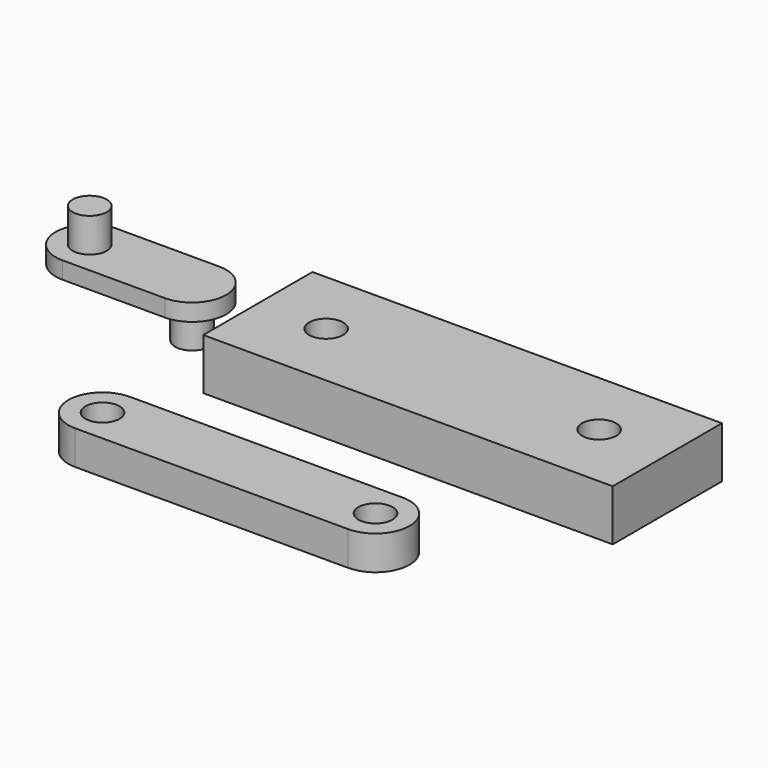
from build123d import *

# Parameters (mm, degrees)
F0_W          = 120
F0_H          = 40
F0_R          = 5
F1_DEPTH      = 15
F2_DEPTH      = 5
F3_DEPTH      = 15
F4_DEPTH      = 10
F4_DEPTH_BACK = 5
F5_DEPTH      = 10


with BuildPart() as f1:
    # F0 (on Top) → F1 (new body)
    with BuildSketch(Plane.XY):
        with Locations((60, 20)):
            Rectangle(F0_W, F0_H)
        with Locations((20, 20)):
            Circle(F0_R, mode=Mode.SUBTRACT)
        with Locations((100, 20)):
            Circle(F0_R, mode=Mode.SUBTRACT)
    extrude(amount=F1_DEPTH)


with BuildPart() as f2:
    # F0 (on Top) → F2 (new body)
    with BuildSketch(Plane.XY):
        with BuildLine():
            Line((-30.2973103523, 43.7778905034), (-60.2973103523, 43.7778905034))
            ThreePointArc((-60.2973103523, 43.7778905034), (-70.2973103523, 33.7778905034), (-60.2973103523, 23.7778905034))
            Line((-60.2973103523, 23.7778905034), (-30.2973103523, 23.7778905034))
            ThreePointArc((-30.2973103523, 23.7778905034), (-20.2973103523, 33.7778905034), (-30.2973103523, 43.7778905034))
        make_face()
        with Locations((-60.2973103523, 33.7778905034)):
            Circle(F0_R, mode=Mode.SUBTRACT)
        with Locations((-30.2973103523, 33.7778905034)):
            Circle(F0_R, mode=Mode.SUBTRACT)
    extrude(amount=F2_DEPTH)

    # F0 (on Top) → F3 (join)
    with BuildSketch(Plane.XY):
        with Locations((-60.2973103523, 33.7778905034)):
            Circle(F0_R)
    extrude(amount=F3_DEPTH)

    # F0 (on Top) → F4 (join, two sides)
    with BuildSketch(Plane.XY) as f4_sk:
        with Locations((-30.2973103523, 33.7778905034)):
            Circle(F0_R)
    extrude(amount=-F4_DEPTH)
    extrude(f4_sk.sketch, amount=F4_DEPTH_BACK)


with BuildPart() as f5:
    # F0 (on Top) → F5 (new body)
    with BuildSketch(Plane.XY):
        with BuildLine():
            Line((80, -26.9104737011), (0, -26.9104737011))
            ThreePointArc((0, -26.9104737011), (-10, -36.9104737011), (0, -46.9104737011))
            Line((0, -46.9104737011), (80, -46.9104737011))
            ThreePointArc((80, -46.9104737011), (90, -36.9104737011), (80, -26.9104737011))
        make_face()
        with Locations((0, -36.9104737011)):
            Circle(F0_R, mode=Mode.SUBTRACT)
        with Locations((80, -36.9104737011)):
            Circle(F0_R, mode=Mode.SUBTRACT)
    extrude(amount=F5_DEPTH)


solid = Compound([f1.part, f2.part, f5.part])
